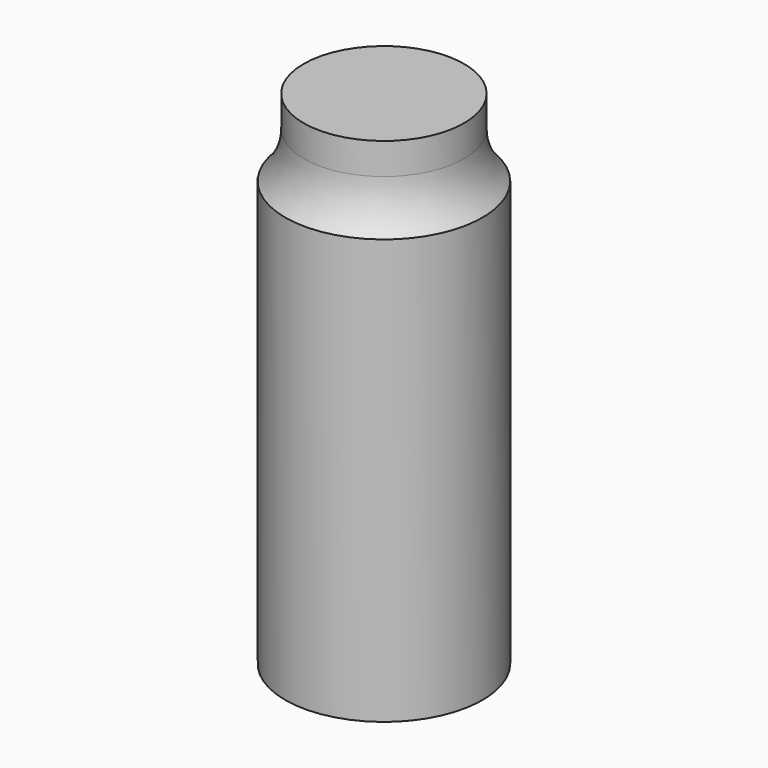
from build123d import *


with BuildPart() as f3:
    # F2 (on Front) → F3 (revolve)
    with BuildSketch(Plane.XZ):
        with BuildLine():
            Line((0, -71.4375), (0, 4.7625))
            Line((0, 4.7625), (-12.185892, 4.7625))
            Line((-12.185892, 4.7625), (-12.185892, 0))
            ThreePointArc((-12.185892, 0), (-12.911071, -3.745071), (-14.981776, -6.948759))
            Line((-14.981776, -6.948759), (-14.981776, -71.4375))
            Line((-14.981776, -71.4375), (0, -71.4375))
        make_face()
    revolve(axis=Axis((0, 0, -33.3375), (0, 0, 1)))


solid = f3.part
